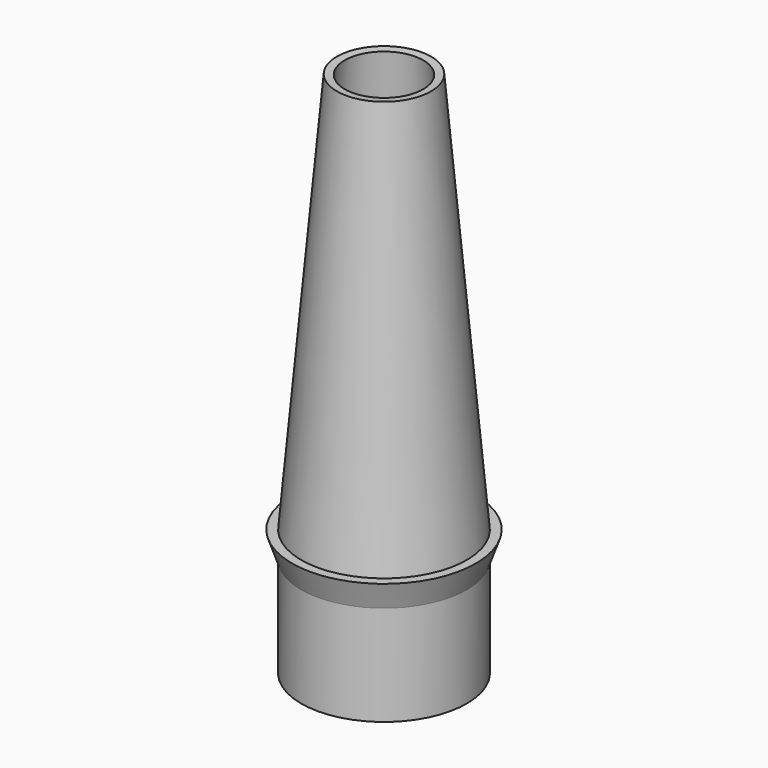
from build123d import *

# Parameters (mm, degrees)
F1_W = 1.5
F1_H = 19.0184637904


with BuildPart() as f2:
    # F1 (on Right) → F2 (revolve)
    with BuildSketch(Plane.YZ):
        Polygon((-14.2185513526, 19.0184637904), (-14.2185513526, 24.0184637904), (-15.7185513526, 24.0184637904), (-17.4685513526, 24.0184637904), (-15.7185513526, 19.0184637904), align=None)
        Polygon((-15.7185513526, 24.0184637904), (-14.2185513526, 24.0184637904), (-7.4561595252, 100.0857525279), (-8.9502772316, 100.2184637904), align=None)
        with Locations((-14.9685513526, 9.5092318952)):
            Rectangle(F1_W, F1_H)
    revolve(axis=Axis((0, 0, 0), (0, 0, 1)))


solid = f2.part
